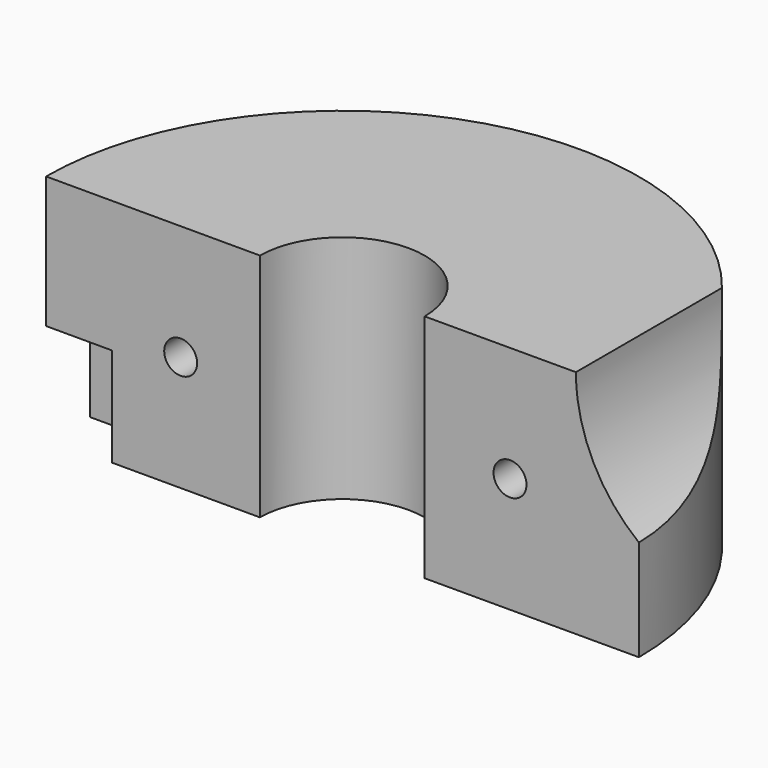
from build123d import *

# Parameters (mm, degrees)
CYLINDER017_R     = 0.5
CYLINDER017_DEPTH = 20
CYLINDER018_R     = 0.5
CYLINDER018_DEPTH = 20
CYLINDER008_R     = 5
CYLINDER008_DEPTH = 13
PAD007_DEPTH      = 7
SKETCH065_W       = 2
SKETCH065_H       = 3
POCKET005_DEPTH   = 3


with BuildPart() as cylinder017:
    # Cylinder017 → Cylinder017 (new body)
    with BuildSketch(Plane(origin=(39, 12, 17.5), x_dir=(1, 0, 0), z_dir=(0, -1, 0))):
        Circle(CYLINDER017_R)
    extrude(amount=CYLINDER017_DEPTH)


with BuildPart() as fusion018:
    # Cylinder018 → Cylinder018 (new body)
    with BuildSketch(Plane(origin=(49, 12, 17.5), x_dir=(1, 0, 0), z_dir=(0, -1, 0))):
        Circle(CYLINDER018_R)
    extrude(amount=CYLINDER018_DEPTH)

    # Fusion018: union Cylinder017
    add(cylinder017.part)


with BuildPart() as cylinder008:
    # Cylinder008 → Cylinder008 (new body)
    with BuildSketch(Plane(origin=(56, -3, 21), x_dir=(1, 0, 0), z_dir=(0, 1, 0))):
        Circle(CYLINDER008_R)
    extrude(amount=CYLINDER008_DEPTH)


with BuildPart() as potclamp:
    # Sketch059 → Pad007 (new body)
    with BuildSketch(Plane.XY):
        with BuildLine():
            ThreePointArc((46.408643, 2.758552), (43.908643, 5.259517), (41.408643, 2.758552))
            Line((34.911109, 2.762902), (41.408643, 2.758552))
            ThreePointArc((52.911107, 2.762902), (43.911108, 11.758552), (34.911109, 2.762902))
            Line((46.408643, 2.758552), (52.911107, 2.762902))
        make_face()
    extrude(amount=PAD007_DEPTH)

    # Sketch065 → Pocket005 (cut)
    with BuildSketch(Plane.XY):
        with Locations((35.911109, 2.762661)):
            Rectangle(SKETCH065_W, SKETCH065_H)
    extrude(amount=POCKET005_DEPTH, mode=Mode.SUBTRACT)


with BuildPart() as potclamp_1:
    # Body007 placement: moved
    add(potclamp.part.moved(Location((0, 0, 14))))

    # Cut005: cut Cylinder008
    add(cylinder008.part, mode=Mode.SUBTRACT)

    # Cut011: cut Fusion018
    add(fusion018.part, mode=Mode.SUBTRACT)


solid = potclamp_1.part
